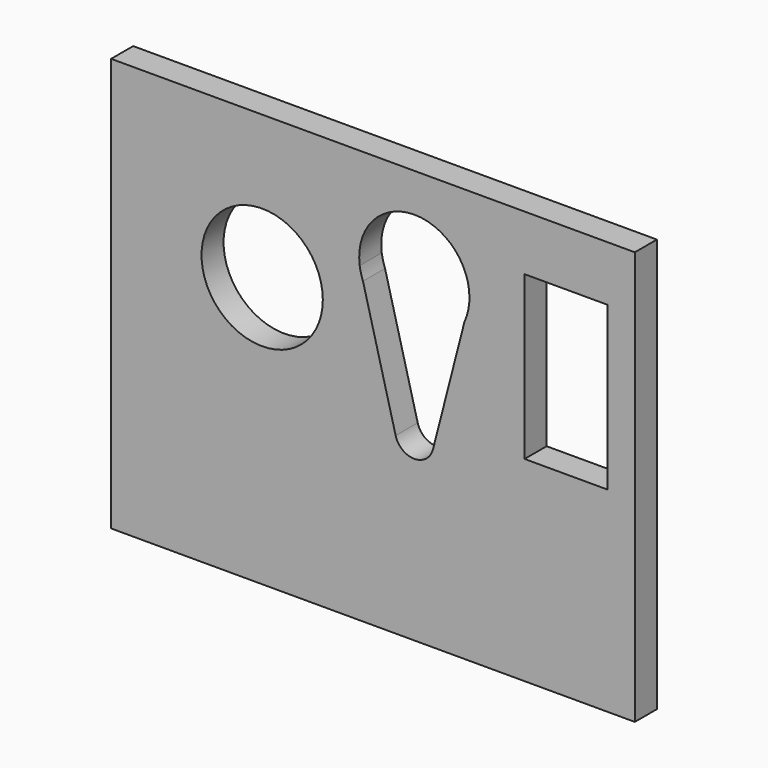
from build123d import *

# Parameters (mm, degrees)
F0_W     = 475
F0_H     = 375
F0_R     = 55
F0_W_2   = 75.338244
F0_H_2   = 147.539295
F1_DEPTH = 25


with BuildPart() as f1:
    # F0 (on Front) → F1 (new body)
    with BuildSketch(Plane.XZ):
        Rectangle(F0_W, F0_H)
        with Locations((-100.5, 57.5)):
            Circle(F0_R, mode=Mode.SUBTRACT)
        with BuildLine():
            ThreePointArc((-12.038727, 95.723974), (34.104146, 152.384548), (87.5, 102.5))
            ThreePointArc((87.5, 102.5), (87.465172, 100.6341), (87.360737, 98.770799))
            ThreePointArc((87.360737, 98.770799), (85.927868, 90.060481), (82.985546, 81.737893))
            Line((82.985546, 81.737893), (54.449754, -29.353832))
            ThreePointArc((54.449754, -29.353832), (37.530195, -42.499974), (20.565372, -29.412296))
            Line((20.565372, -29.412296), (-9.046864, 84.241046))
            ThreePointArc((-9.046864, 84.241046), (-10.884653, 89.893439), (-12.038727, 95.723974))
        make_face(mode=Mode.SUBTRACT)
        with Locations((175.169122, 63.730353)):
            Rectangle(F0_W_2, F0_H_2, mode=Mode.SUBTRACT)
    extrude(amount=F1_DEPTH)


solid = f1.part
